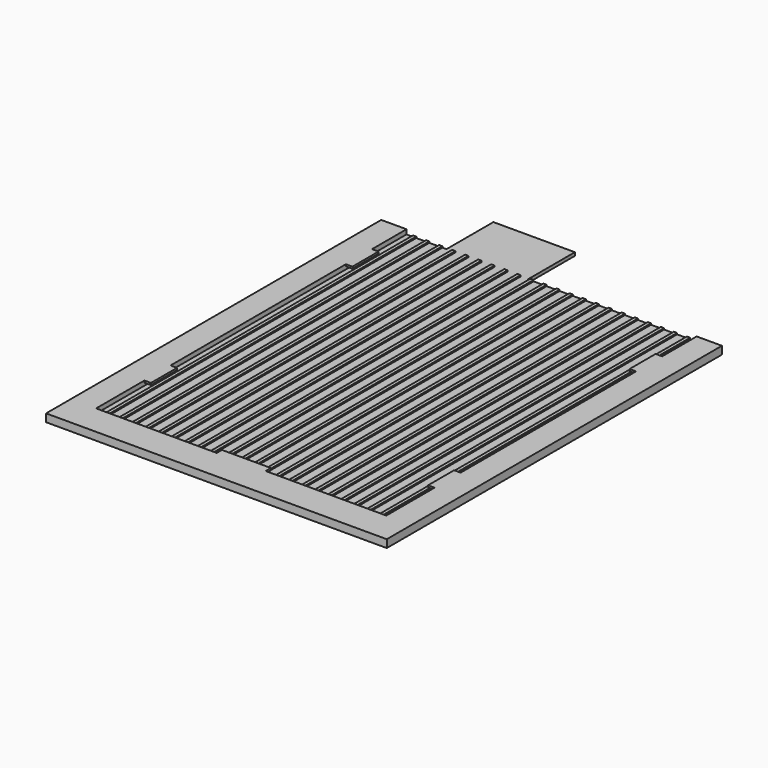
from build123d import *

# Parameters (mm, degrees)
F1_DEPTH = 1
F3_DEPTH = 1.4
F4_W     = 2
F4_H     = 10
F4_W_2   = 15
F4_H_2   = 2
F5_DEPTH = 0.6
F6_W     = 1
F6_H     = 119
F7_DEPTH = 0.4


with BuildPart() as f1:
    # F0 (on Top) → F1 (new body)
    with BuildSketch(Plane.XY):
        Polygon((-25, 88.965908), (-45, 88.965908), (-45, -39.534092), (59.5, -39.534092), (59.5, 88.965908), (0, 88.965908), (0, 106.965908), (-25, 106.965908), align=None)
    extrude(amount=F1_DEPTH)

    # F2 (on face) → F3 (join)
    with BuildSketch(Plane.XY.offset(1)):
        Polygon((-37.25, -30.034092), (-37.25, 88.965908), (-45, 88.965908), (-45, -39.534092), (59.5, -39.534092), (59.5, 88.965908), (51.75, 88.965908), (51.75, -30.034092), align=None)
    extrude(amount=F3_DEPTH)

    # F4 (on face) → F5 (join)
    with BuildSketch(Plane.XY.offset(2.4)):
        with Locations((50.75, 70.738149)):
            Rectangle(F4_W, F4_H)
        with Locations((50.75, -6.520228)):
            Rectangle(F4_W, F4_H)
        with Locations((7.25, -29.034092)):
            Rectangle(F4_W_2, F4_H_2)
        with Locations((-36.250001, -6.520228)):
            Rectangle(F4_W, F4_H)
        with Locations((-36.25, 70.738149)):
            Rectangle(F4_W, F4_H)
    extrude(amount=-F5_DEPTH)

    # F6 (on face) → F7 (join)
    with BuildSketch(Plane.XY.offset(1)):
        with Locations((-34.75, 29.465908)):
            Rectangle(F6_W, F6_H)
        with Locations((-30.75, 29.465908)):
            Rectangle(F6_W, F6_H)
        with Locations((-26.75, 29.465908)):
            Rectangle(F6_W, F6_H)
        with Locations((-22.75, 29.465908)):
            Rectangle(F6_W, F6_H)
        with Locations((-18.75, 29.465908)):
            Rectangle(F6_W, F6_H)
        with Locations((-14.75, 29.465908)):
            Rectangle(F6_W, F6_H)
        with Locations((-10.75, 29.465908)):
            Rectangle(F6_W, F6_H)
        with Locations((-6.75, 29.465908)):
            Rectangle(F6_W, F6_H)
        with Locations((-2.75, 29.465908)):
            Rectangle(F6_W, F6_H)
        with Locations((1.25, 29.465908)):
            Rectangle(F6_W, F6_H)
        with Locations((5.25, 29.465908)):
            Rectangle(F6_W, F6_H)
        with Locations((9.25, 29.465908)):
            Rectangle(F6_W, F6_H)
        with Locations((13.25, 29.465908)):
            Rectangle(F6_W, F6_H)
        with Locations((17.25, 29.465908)):
            Rectangle(F6_W, F6_H)
        with Locations((21.25, 29.465908)):
            Rectangle(F6_W, F6_H)
        with Locations((25.25, 29.465908)):
            Rectangle(F6_W, F6_H)
        with Locations((29.25, 29.465908)):
            Rectangle(F6_W, F6_H)
        with Locations((33.25, 29.465908)):
            Rectangle(F6_W, F6_H)
        with Locations((37.25, 29.465908)):
            Rectangle(F6_W, F6_H)
        with Locations((41.25, 29.465908)):
            Rectangle(F6_W, F6_H)
        with Locations((49.25, 29.465908)):
            Rectangle(F6_W, F6_H)
        with Locations((45.25, 29.465908)):
            Rectangle(F6_W, F6_H)
    extrude(amount=F7_DEPTH)


solid = f1.part
